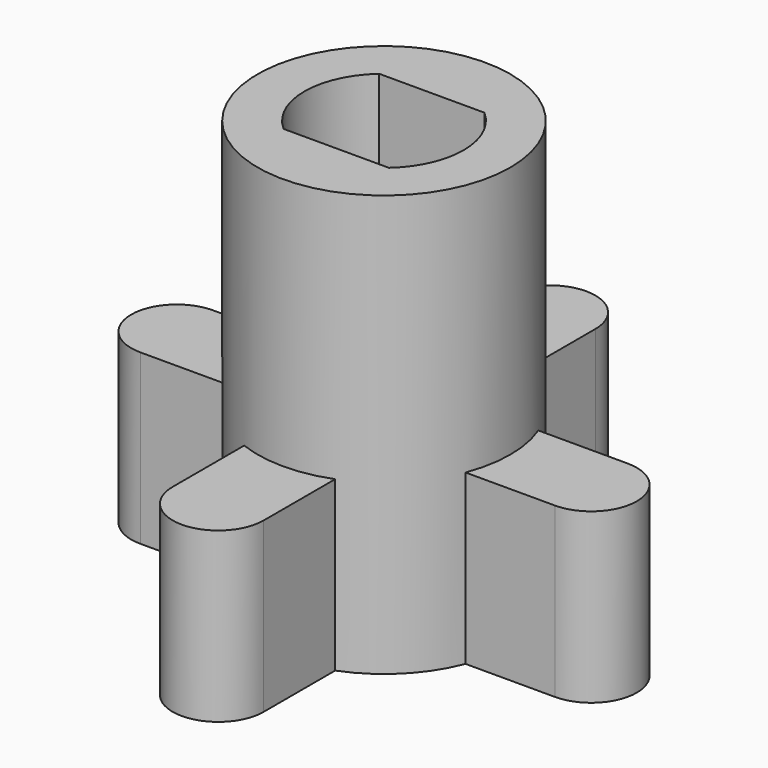
from build123d import *

# Parameters (mm, degrees)
F0_R          = 4.7625
F1_DEPTH      = 9.525
F1_DEPTH_BACK = 6.35
F4_DEPTH      = 9.526
F6_DEPTH      = 6.35
F7_COUNT      = 4


with BuildPart() as f1:
    # F0 (on Top) → F1 (new body, two sides)
    with BuildSketch(Plane.XY) as f1_sk:
        Circle(F0_R)
    extrude(amount=F1_DEPTH)
    extrude(f1_sk.sketch, amount=-F1_DEPTH_BACK)

    # F2 (on Top) → F4 (cut, through all)
    with BuildSketch(Plane.XY):
        with BuildLine():
            ThreePointArc((1.9843134833, -2.25), (2.7343134833, -1.2343134833), (3, 0))
            ThreePointArc((3, 0), (2.7343134833, 1.2343134833), (1.9843134833, 2.25))
            Line((1.9843134833, 2.25), (-1.9843134833, 2.25))
            ThreePointArc((-1.9843134833, 2.25), (-3, 0), (-1.9843134833, -2.25))
            Line((-1.9843134833, -2.25), (1.9843134833, -2.25))
        make_face()
    extrude(amount=F4_DEPTH, mode=Mode.SUBTRACT)



with BuildPart() as f6:
    # F5 (on Top) → F6 (new body, through all)
    with BuildSketch(Plane.XY):
        with BuildLine():
            Line((0, 1.7145), (-7.8105, 1.7145))
            ThreePointArc((-7.8105, 1.7145), (-9.525, 0), (-7.8105, -1.7145))
            Line((-7.8105, -1.7145), (0, -1.7145))
            Line((0, -1.7145), (0, 1.7145))
        make_face()
    extrude(amount=-F6_DEPTH)


with BuildPart() as f1_1:
    add(f1.part)

    add(f6.part)  # F7 merges F6
    # F7: F6 ×4 about axis
    f7_axis = Axis((0, 0, 0), (0, 0, -1))
    for i in range(1, F7_COUNT):
        add(f6.part.rotate(f7_axis, i * 360 / F7_COUNT))


solid = f1_1.part
